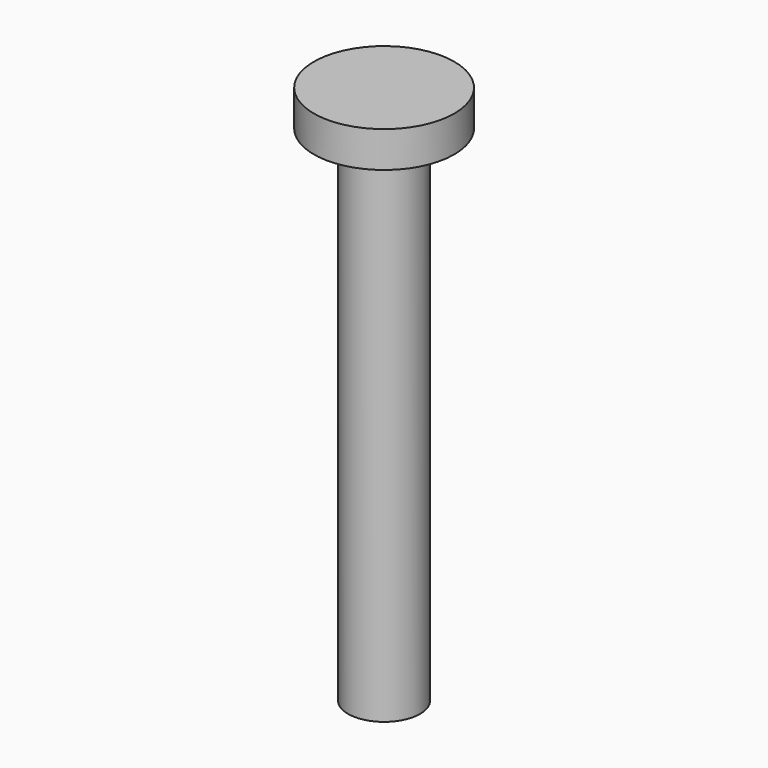
from build123d import *

# Parameters (mm, degrees)
F0_R     = 6.35
F1_DEPTH = 88.9
F2_R     = 12.396398
F2_R_2   = 6.35
F3_DEPTH = 6.35


with BuildPart() as f1:
    # F0 (on Top) → F1 (new body)
    with BuildSketch(Plane.XY):
        Circle(F0_R)
    extrude(amount=F1_DEPTH)

    # F2 (on face) → F3 (join)
    with BuildSketch(Plane.XY.offset(88.9)):
        Circle(F2_R)
        Circle(F2_R_2, mode=Mode.SUBTRACT)
        Circle(F2_R_2)
    extrude(amount=F3_DEPTH)


solid = f1.part
